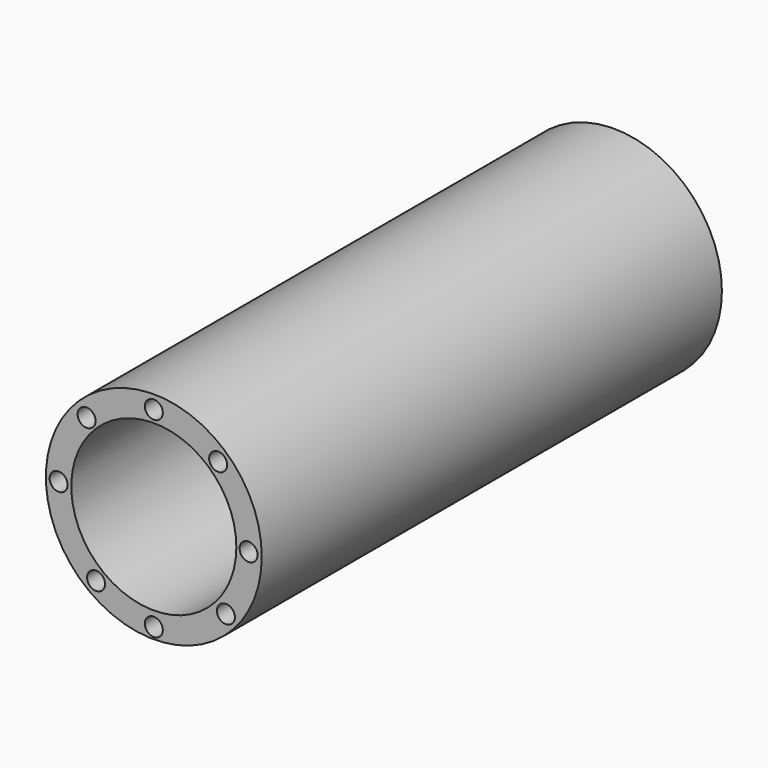
from build123d import *

# Parameters (mm, degrees)
F0_R        = 95.337967
F0_R_2      = 72.892959
F1_DEPTH    = 254
F1_FACE_R   = 95.337967
F1_FACE_R_2 = 72.892959
F2_DEPTH    = 254
F4_D        = 15.875


with BuildPart() as f1:
    # F0 (on Front) → F1 (new body)
    with BuildSketch(Plane.XZ):
        Circle(F0_R)
        Circle(F0_R_2, mode=Mode.SUBTRACT)
    extrude(amount=F1_DEPTH)

    # F1_face (on face) → F2 (join)
    with BuildSketch(Plane.XZ.offset(254)):
        Circle(F1_FACE_R)
        Circle(F1_FACE_R_2, mode=Mode.SUBTRACT)
    extrude(amount=F2_DEPTH)

    # F4 (through all)
    with Locations(Plane.XZ.offset(508)):
        with Locations((-59.389438, 57.769768), (-84.084906, 0), (0, 83.347216), (56.811582, 61.297689), (83.712012, 0), (63.646935, -54.903328), (0, -85.552171), (-51.010616, -66.369079)):
            Hole(F4_D / 2)


solid = f1.part
